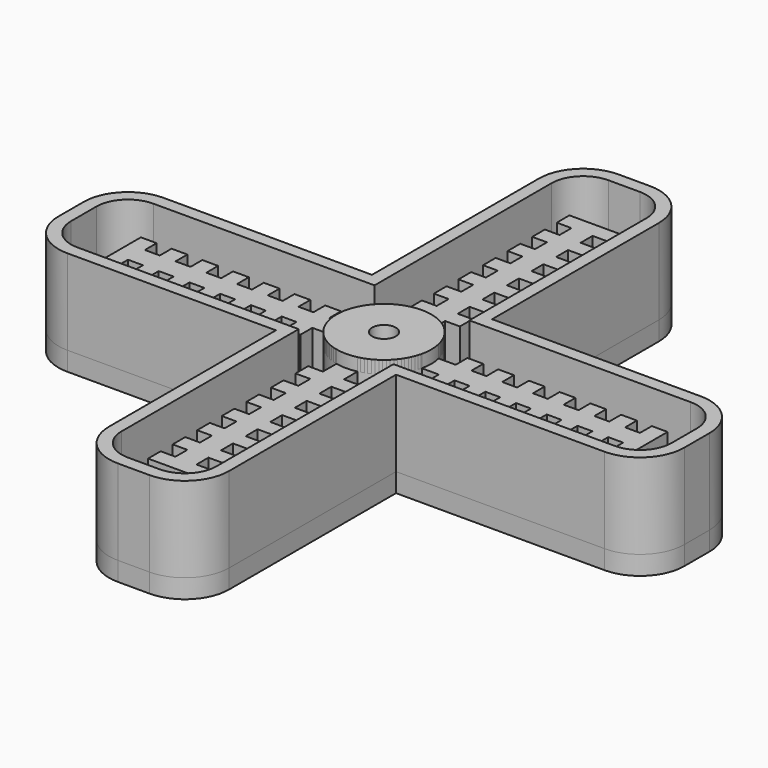
from build123d import *

# Parameters (mm, degrees)
F1_DEPTH = 19.05
F2_DEPTH = 15.24
F3_DEPTH = 17.78
F4_R     = 9.525
F5_DEPTH = 2.54
F6_R     = 2.38125
F7_DEPTH = 12.7
F9_DEPTH = 1.905


with BuildPart() as f1:
    # F0 (on Top) → F1 (new body)
    with BuildSketch(Plane.XY):
        with BuildLine():
            Line((53.975, 12.065), (12.065, 12.065))
            Line((12.065, 12.065), (12.065, 53.975))
            ThreePointArc((12.065, 53.975), (9.461179, 60.261179), (3.175, 62.865))
            Line((3.175, 62.865), (-3.175, 62.865))
            ThreePointArc((-3.175, 62.865), (-9.461179, 60.261179), (-12.065, 53.975))
            Line((-12.065, 53.975), (-12.065, 12.065))
            Line((-12.065, 12.065), (-53.975, 12.065))
            ThreePointArc((-53.975, 12.065), (-60.261179, 9.461179), (-62.865, 3.175))
            Line((-62.865, 3.175), (-62.865, -3.175))
            ThreePointArc((-62.865, -3.175), (-60.261179, -9.461179), (-53.975, -12.065))
            Line((-53.975, -12.065), (-12.065, -12.065))
            Line((-12.065, -12.065), (-12.065, -53.975))
            ThreePointArc((-12.065, -53.975), (-9.461179, -60.261179), (-3.175, -62.865))
            Line((-3.175, -62.865), (3.175, -62.865))
            ThreePointArc((3.175, -62.865), (9.461179, -60.261179), (12.065, -53.975))
            Line((12.065, -53.975), (12.065, -12.065))
            Line((12.065, -12.065), (53.975, -12.065))
            ThreePointArc((53.975, -12.065), (60.261179, -9.461179), (62.865, -3.175))
            Line((62.865, -3.175), (62.865, 3.175))
            ThreePointArc((62.865, 3.175), (60.261179, 9.461179), (53.975, 12.065))
        make_face()
        with BuildLine():
            ThreePointArc((-9.525, 53.975), (-7.665128, 58.465128), (-3.175, 60.325))
            Line((-3.175, 60.325), (3.175, 60.325))
            ThreePointArc((3.175, 60.325), (7.665128, 58.465128), (9.525, 53.975))
            Line((9.525, 53.975), (9.525, 9.525))
            Line((9.525, 9.525), (53.975, 9.525))
            ThreePointArc((53.975, 9.525), (58.465128, 7.665128), (60.325, 3.175))
            Line((60.325, 3.175), (60.325, -3.175))
            ThreePointArc((60.325, -3.175), (58.465128, -7.665128), (53.975, -9.525))
            Line((53.975, -9.525), (9.525, -9.525))
            Line((9.525, -9.525), (9.525, -53.975))
            ThreePointArc((9.525, -53.975), (7.665128, -58.465128), (3.175, -60.325))
            Line((3.175, -60.325), (-3.175, -60.325))
            ThreePointArc((-3.175, -60.325), (-7.665128, -58.465128), (-9.525, -53.975))
            Line((-9.525, -53.975), (-9.525, -9.525))
            Line((-9.525, -9.525), (-53.975, -9.525))
            ThreePointArc((-53.975, -9.525), (-58.465128, -7.665128), (-60.325, -3.175))
            Line((-60.325, -3.175), (-60.325, 3.175))
            ThreePointArc((-60.325, 3.175), (-58.465128, 7.665128), (-53.975, 9.525))
            Line((-53.975, 9.525), (-9.525, 9.525))
            Line((-9.525, 9.525), (-9.525, 53.975))
        make_face(mode=Mode.SUBTRACT)
    extrude(amount=F1_DEPTH)


with BuildPart() as f2:
    # F0 (on Top) → F2 (new body)
    with BuildSketch(Plane.XY):
        Polygon((-7.979019, 2.116667), (-9.286837, 2.116667), (-12.7, 2.116667), (-12.7, 5.08), (-15.875, 5.08), (-15.875, 2.116667), (-18.8722, 2.116667), (-18.8722, 5.08), (-22.0472, 5.08), (-22.0472, 2.116667), (-25.0444, 2.116667), (-25.0444, 5.08), (-28.2194, 5.08), (-28.2194, 2.116667), (-31.2166, 2.116667), (-31.2166, 5.08), (-34.3916, 5.08), (-34.3916, 2.116667), (-37.3888, 2.116667), (-37.3888, 5.08), (-40.5638, 5.08), (-40.5638, 2.116667), (-43.561, 2.116667), (-43.561, 5.08), (-46.736, 5.08), (-46.736, 2.116667), (-49.7332, 2.116667), (-49.7332, 5.08), (-52.9082, 5.08), (-52.9082, -5.08), (-49.7332, -5.08), (-49.7332, -2.116667), (-46.736, -2.116667), (-46.736, -5.08), (-43.561, -5.08), (-43.561, -2.116667), (-40.5638, -2.116667), (-40.5638, -5.08), (-37.3888, -5.08), (-37.3888, -2.116667), (-34.3916, -2.116667), (-34.3916, -5.08), (-31.2166, -5.08), (-31.2166, -2.116667), (-28.2194, -2.116667), (-28.2194, -5.08), (-25.0444, -5.08), (-25.0444, -2.116667), (-22.0472, -2.116667), (-22.0472, -5.08), (-18.8722, -5.08), (-18.8722, -2.116667), (-15.875, -2.116667), (-15.875, -5.08), (-12.7, -5.08), (-12.7, -2.116667), (-9.286837, -2.116667), (-7.979019, -2.116667), align=None)
        Polygon((-2.116667, 12.7), (-2.116667, 9.286837), (-2.116667, 7.979019), (2.116667, 7.979019), (2.116667, 9.286837), (2.116667, 12.7), (5.08, 12.7), (5.08, 15.875), (2.116667, 15.875), (2.116667, 18.8722), (5.08, 18.8722), (5.08, 22.0472), (2.116667, 22.0472), (2.116667, 25.0444), (5.08, 25.0444), (5.08, 28.2194), (2.116667, 28.2194), (2.116667, 31.2166), (5.08, 31.2166), (5.08, 34.3916), (2.116667, 34.3916), (2.116667, 37.3888), (5.08, 37.3888), (5.08, 40.5638), (2.116667, 40.5638), (2.116667, 43.561), (5.08, 43.561), (5.08, 46.736), (2.116667, 46.736), (2.116667, 49.7332), (5.08, 49.7332), (5.08, 52.9082), (-5.08, 52.9082), (-5.08, 49.7332), (-2.116667, 49.7332), (-2.116667, 46.736), (-5.08, 46.736), (-5.08, 43.561), (-2.116667, 43.561), (-2.116667, 40.5638), (-5.08, 40.5638), (-5.08, 37.3888), (-2.116667, 37.3888), (-2.116667, 34.3916), (-5.08, 34.3916), (-5.08, 31.2166), (-2.116667, 31.2166), (-2.116667, 28.2194), (-5.08, 28.2194), (-5.08, 25.0444), (-2.116667, 25.0444), (-2.116667, 22.0472), (-5.08, 22.0472), (-5.08, 18.8722), (-2.116667, 18.8722), (-2.116667, 15.875), (-5.08, 15.875), (-5.08, 12.7), align=None)
        Polygon((9.286837, 2.116667), (7.979019, 2.116667), (7.979019, -2.116667), (9.286837, -2.116667), (12.7, -2.116667), (12.7, -5.08), (15.875, -5.08), (15.875, -2.116667), (18.8722, -2.116667), (18.8722, -5.08), (22.0472, -5.08), (22.0472, -2.116667), (25.0444, -2.116667), (25.0444, -5.08), (28.2194, -5.08), (28.2194, -2.116667), (31.2166, -2.116667), (31.2166, -5.08), (34.3916, -5.08), (34.3916, -2.116667), (37.3888, -2.116667), (37.3888, -5.08), (40.5638, -5.08), (40.5638, -2.116667), (43.561, -2.116667), (43.561, -5.08), (46.736, -5.08), (46.736, -2.116667), (49.7332, -2.116667), (49.7332, -5.08), (52.9082, -5.08), (52.9082, 5.08), (49.7332, 5.08), (49.7332, 2.116667), (46.736, 2.116667), (46.736, 5.08), (43.561, 5.08), (43.561, 2.116667), (40.5638, 2.116667), (40.5638, 5.08), (37.3888, 5.08), (37.3888, 2.116667), (34.3916, 2.116667), (34.3916, 5.08), (31.2166, 5.08), (31.2166, 2.116667), (28.2194, 2.116667), (28.2194, 5.08), (25.0444, 5.08), (25.0444, 2.116667), (22.0472, 2.116667), (22.0472, 5.08), (18.8722, 5.08), (18.8722, 2.116667), (15.875, 2.116667), (15.875, 5.08), (12.7, 5.08), (12.7, 2.116667), align=None)
        Polygon((2.116667, -7.979019), (-2.116667, -7.979019), (-2.116667, -9.286837), (-2.116667, -12.7), (-5.08, -12.7), (-5.08, -15.875), (-2.116667, -15.875), (-2.116667, -18.8722), (-5.08, -18.8722), (-5.08, -22.0472), (-2.116667, -22.0472), (-2.116667, -25.0444), (-5.08, -25.0444), (-5.08, -28.2194), (-2.116667, -28.2194), (-2.116667, -31.2166), (-5.08, -31.2166), (-5.08, -34.3916), (-2.116667, -34.3916), (-2.116667, -37.3888), (-5.08, -37.3888), (-5.08, -40.5638), (-2.116667, -40.5638), (-2.116667, -43.561), (-5.08, -43.561), (-5.08, -46.736), (-2.116667, -46.736), (-2.116667, -49.7332), (-5.08, -49.7332), (-5.08, -52.9082), (5.08, -52.9082), (5.08, -49.7332), (2.116667, -49.7332), (2.116667, -46.736), (5.08, -46.736), (5.08, -43.561), (2.116667, -43.561), (2.116667, -40.5638), (5.08, -40.5638), (5.08, -37.3888), (2.116667, -37.3888), (2.116667, -34.3916), (5.08, -34.3916), (5.08, -31.2166), (2.116667, -31.2166), (2.116667, -28.2194), (5.08, -28.2194), (5.08, -25.0444), (2.116667, -25.0444), (2.116667, -22.0472), (5.08, -22.0472), (5.08, -18.8722), (2.116667, -18.8722), (2.116667, -15.875), (5.08, -15.875), (5.08, -12.7), (2.116667, -12.7), (2.116667, -9.286837), align=None)
    extrude(amount=F2_DEPTH)


with BuildPart() as f3:
    # F0 (on Top) → F3 (new body)
    with BuildSketch(Plane.XY):
        with BuildLine():
            Line((-2.116667, 7.979019), (-2.116667, 9.286837))
            ThreePointArc((-2.116667, 9.286837), (-6.735192, 6.735192), (-9.286837, 2.116667))
            Line((-9.286837, 2.116667), (-7.979019, 2.116667))
            ThreePointArc((-7.979019, 2.116667), (-5.837166, 5.837166), (-2.116667, 7.979019))
        make_face()
        with BuildLine():
            ThreePointArc((-2.116667, -7.979019), (-5.837166, -5.837166), (-7.979019, -2.116667))
            Line((-7.979019, -2.116667), (-9.286837, -2.116667))
            ThreePointArc((-9.286837, -2.116667), (-6.735192, -6.735192), (-2.116667, -9.286837))
            Line((-2.116667, -9.286837), (-2.116667, -7.979019))
        make_face()
        with BuildLine():
            Line((2.116667, 9.286837), (2.116667, 7.979019))
            ThreePointArc((2.116667, 7.979019), (5.837166, 5.837166), (7.979019, 2.116667))
            Line((7.979019, 2.116667), (9.286837, 2.116667))
            ThreePointArc((9.286837, 2.116667), (6.735192, 6.735192), (2.116667, 9.286837))
        make_face()
        with BuildLine():
            Line((9.286837, -2.116667), (7.979019, -2.116667))
            ThreePointArc((7.979019, -2.116667), (5.837166, -5.837166), (2.116667, -7.979019))
            Line((2.116667, -7.979019), (2.116667, -9.286837))
            ThreePointArc((2.116667, -9.286837), (6.735192, -6.735192), (9.286837, -2.116667))
        make_face()
    extrude(amount=F3_DEPTH)


with BuildPart() as f5:
    # F4 (on face) → F5 (new body)
    with BuildSketch(Plane.XY.offset(17.78)):
        Circle(F4_R)
    extrude(amount=-F5_DEPTH)

    # F6 (on face) → F7 (cut)
    with BuildSketch(Plane.XY.offset(17.78)):
        Circle(F6_R)
    extrude(amount=-F7_DEPTH, mode=Mode.SUBTRACT)


with BuildPart() as f9:
    # F8 (on Top) → F9 (new body, symmetric)
    with BuildSketch(Plane.XY):
        with BuildLine():
            Line((-53.975, -12.065), (-12.065, -12.065))
            Line((-12.065, -12.065), (-12.065, -53.975))
            ThreePointArc((-12.065, -53.975), (-9.461179, -60.261179), (-3.175, -62.865))
            Line((-3.175, -62.865), (3.175, -62.865))
            ThreePointArc((3.175, -62.865), (9.461179, -60.261179), (12.065, -53.975))
            Line((12.065, -53.975), (12.065, -12.065))
            Line((12.065, -12.065), (53.975, -12.065))
            ThreePointArc((53.975, -12.065), (60.261179, -9.461179), (62.865, -3.175))
            Line((62.865, -3.175), (62.865, 3.175))
            ThreePointArc((62.865, 3.175), (60.261179, 9.461179), (53.975, 12.065))
            Line((53.975, 12.065), (12.065, 12.065))
            Line((12.065, 12.065), (12.065, 53.975))
            ThreePointArc((12.065, 53.975), (9.461179, 60.261179), (3.175, 62.865))
            Line((3.175, 62.865), (-3.175, 62.865))
            ThreePointArc((-3.175, 62.865), (-9.461179, 60.261179), (-12.065, 53.975))
            Line((-12.065, 53.975), (-12.065, 12.065))
            Line((-12.065, 12.065), (-53.975, 12.065))
            ThreePointArc((-53.975, 12.065), (-60.261179, 9.461179), (-62.865, 3.175))
            Line((-62.865, 3.175), (-62.865, -3.175))
            ThreePointArc((-62.865, -3.175), (-60.261179, -9.461179), (-53.975, -12.065))
        make_face()
    extrude(amount=F9_DEPTH, both=True)


solid = Compound([f1.part, f2.part, f3.part, f5.part, f9.part])
